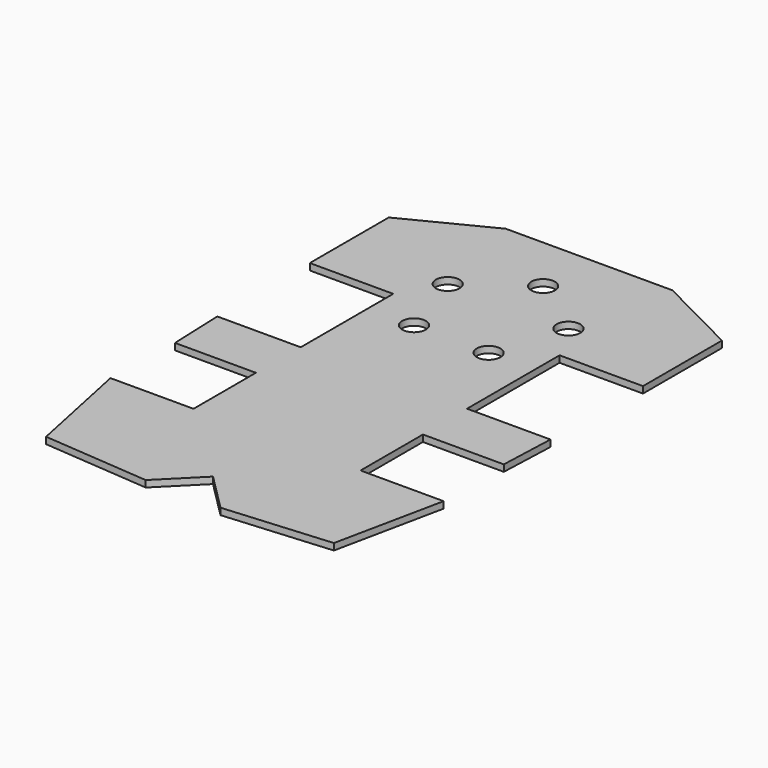
from build123d import *

# Parameters (mm, degrees)
F0_R     = 5.378728
F1_DEPTH = 3


with BuildPart() as f1:
    # F0 (on Top) → F1 (new body)
    with BuildSketch(Plane.XY):
        Polygon((37.877, 157.99418), (-37.877, 157.99418), (-75.754, 138.791263), (-75.754, 93.923003), (-37.81745, 93.923003), (-37.81745, 41.329236), (-75.754, 41.329236), (-74.75892, 16.058627), (-37.981589, 16.058627), (-37.981589, -19.397769), (-75.749919, -19.397769), (-65.440015, -68.876029), (-17.008603, -72.802902), (0, -55.794295), (17.008603, -72.802902), (65.440015, -68.876029), (75.749919, -19.397769), (37.981589, -19.397769), (37.981589, 16.058627), (74.75892, 16.058627), (75.754, 41.329236), (37.81745, 41.329236), (37.81745, 93.923003), (75.754, 93.923003), (75.754, 138.791263), align=None)
        with Locations((-16.96083, 79.65542)):
            Circle(F0_R, mode=Mode.SUBTRACT)
        with Locations((-27.4432, 111.916836)):
            Circle(F0_R, mode=Mode.SUBTRACT)
        with Locations((16.96083, 79.65542)):
            Circle(F0_R, mode=Mode.SUBTRACT)
        with Locations((27.4432, 111.916836)):
            Circle(F0_R, mode=Mode.SUBTRACT)
        with Locations((0, 131.855488)):
            Circle(F0_R, mode=Mode.SUBTRACT)
    extrude(amount=F1_DEPTH)


solid = f1.part
